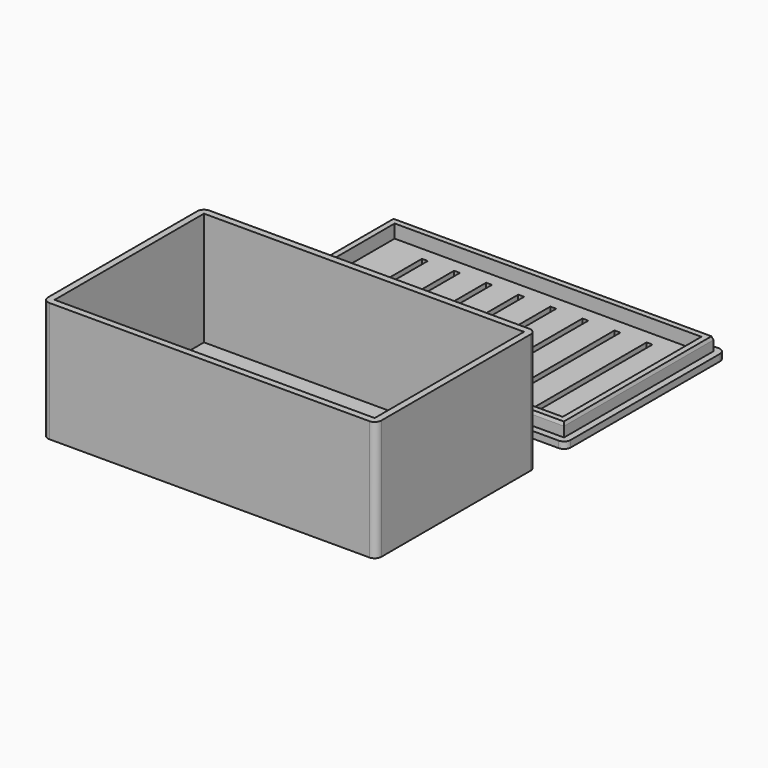
from build123d import *

# Parameters (mm, degrees)
F0_W     = 79.375
F0_H     = 47.625
F0_W_2   = 76.2
F0_H_2   = 44.45
F1_DEPTH = 1.5875
F0_W_3   = 73.025
F0_H_3   = 41.275
F2_DEPTH = 26.9875
F3_DEPTH = 3.175
F4_R     = 1.5875
F4_2_R   = 1.5875
F5_SIZE2 = 0.79375
F5_SIZE  = 0.254
F6_W     = 1.3951079971
F6_H     = 34.925
F7_DEPTH = 1.5875


with BuildPart() as f1:
    # F0 (on Top) → F1 (new body)
    with BuildSketch(Plane.XY):
        Rectangle(F0_W, F0_H)
        Rectangle(F0_W_2, F0_H_2, mode=Mode.SUBTRACT)
        Rectangle(F0_W_2, F0_H_2)
    extrude(amount=-F1_DEPTH)

    # F0 (on Top) → F2 (join)
    with BuildSketch(Plane.XY):
        Rectangle(F0_W, F0_H)
        Rectangle(F0_W_2, F0_H_2, mode=Mode.SUBTRACT)
    extrude(amount=F2_DEPTH)

    # F4#2
    f4_2_edges = [f1.edges().sort_by_distance(p)[0] for p in [
        (39.6875, 23.8125, 12.7),
        (-39.6875, 23.8125, 12.7),
        (39.6875, -23.8125, 12.7),
        (-39.6875, -23.8125, 12.7),
    ]]
    fillet(f4_2_edges, radius=F4_2_R)


with BuildPart() as f1b:
    # F0 (on Top) → F1, piece 2 (new body)
    with BuildSketch(Plane.XY):
        with Locations((0, 56.3514009118)):
            Rectangle(F0_W, F0_H)
        with Locations((0, 56.3514009118)):
            Rectangle(F0_W_2, F0_H_2, mode=Mode.SUBTRACT)
        with Locations((0, 56.3514009118)):
            Rectangle(F0_W_2, F0_H_2)
        with Locations((0, 56.3514009118)):
            Rectangle(F0_W_3, F0_H_3, mode=Mode.SUBTRACT)
        with Locations((0, 56.3514009118)):
            Rectangle(F0_W_3, F0_H_3)
    extrude(amount=-F1_DEPTH)

    # F0 (on Top) → F3 (join)
    with BuildSketch(Plane.XY):
        with Locations((0, 56.3514009118)):
            Rectangle(F0_W_2, F0_H_2)
        with Locations((0, 56.3514009118)):
            Rectangle(F0_W_3, F0_H_3, mode=Mode.SUBTRACT)
    extrude(amount=F3_DEPTH)

    # F4
    f4_edges = [f1b.edges().sort_by_distance(p)[0] for p in [
        (-39.6875, 80.163901, -0.79375),
        (-39.6875, 32.538901, -0.79375),
        (39.6875, 80.163901, -0.79375),
        (39.6875, 32.538901, -0.79375),
    ]]
    fillet(f4_edges, radius=F4_R)

    # F5
    f5_edges = [f1b.edges().sort_by_distance(p)[0] for p in [
        (0, 78.576401, 3.175),
        (38.1, 56.351401, 3.175),
        (0, 34.126401, 3.175),
        (-38.1, 56.351401, 3.175),
    ]]
    f5_side = f1b.faces().sort_by_distance((0, 77.694231, 3.175))[0]
    chamfer(f5_edges, length=F5_SIZE, length2=F5_SIZE2, reference=f5_side)

    # F6 (on Top) → F7 (cut, through all)
    with BuildSketch(Plane.XY):
        with Locations((-26.7763854936, 56.3514009118)):
            Rectangle(F6_W, F6_H)
        with Locations((-19.1144460015, 56.3245)):
            Rectangle(F6_W, F6_H)
        with Locations((-11.4525065094, 56.2975990882)):
            Rectangle(F6_W, F6_H)
        with Locations((-3.7905670173, 56.2706981764)):
            Rectangle(F6_W, F6_H)
        with Locations((3.8713724749, 56.2437972646)):
            Rectangle(F6_W, F6_H)
        with Locations((11.533311967, 56.2168963528)):
            Rectangle(F6_W, F6_H)
        with Locations((19.1952514591, 56.189995441)):
            Rectangle(F6_W, F6_H)
        with Locations((26.8571909512, 56.1630945292)):
            Rectangle(F6_W, F6_H)
    extrude(amount=-F7_DEPTH, mode=Mode.SUBTRACT)


solid = Compound([f1.part, f1b.part])
